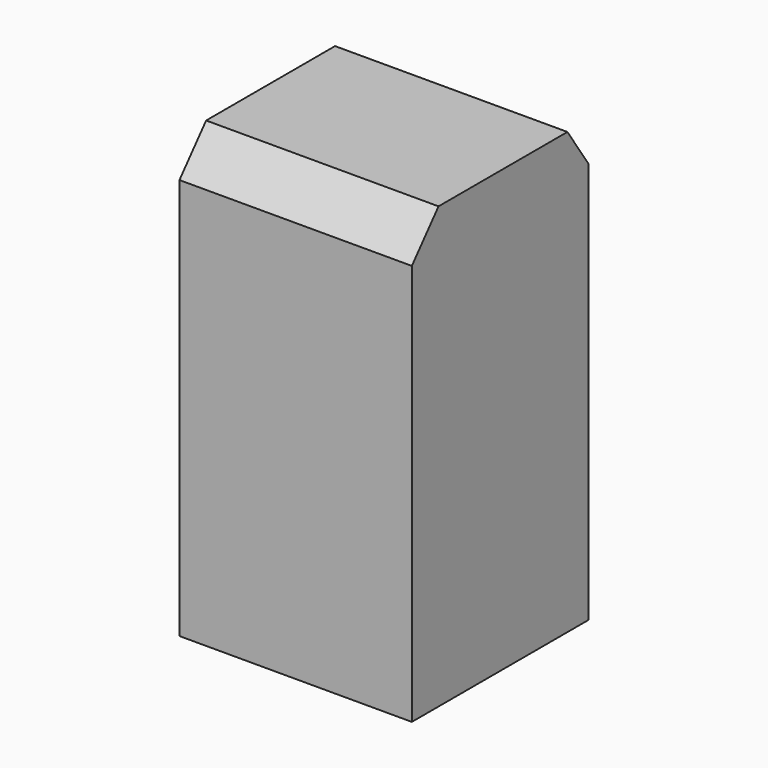
from build123d import *

# Parameters (mm, degrees)
F0_W          = 48.279277
F0_H          = 87.752904
F1_DEPTH      = 25.4
F1_DEPTH_BACK = 25.4


with BuildPart() as f1:
    # F0 (on Right) → F1 (new body, two sides)
    with BuildSketch(Plane.YZ) as f1_sk:
        Polygon((-18.218596, 48.127457), (-25.506034, 39.625447), (22.773243, 39.625447), (17.004022, 48.127457), align=None)
        with Locations((-1.366396, -4.251005)):
            Rectangle(F0_W, F0_H)
        with Locations((-1.366396, -4.251005)):
            Rectangle(F0_W, F0_H)
    extrude(amount=F1_DEPTH)
    extrude(f1_sk.sketch, amount=-F1_DEPTH_BACK)


solid = f1.part
